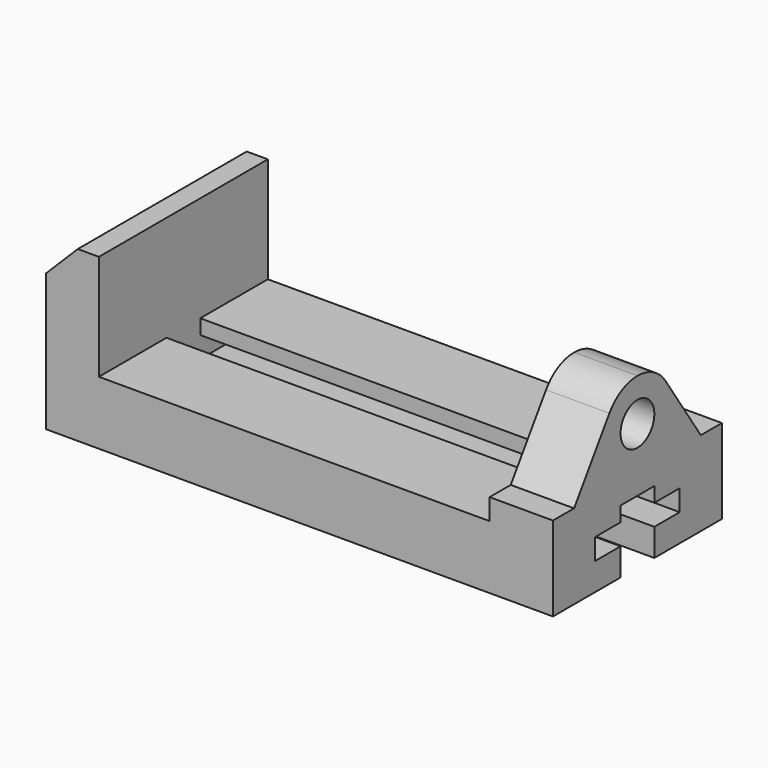
from build123d import *

# Parameters (mm, degrees)
F1_DEPTH = 127
F2_R     = 12.7
F3_DEPTH = 38.1
F4_DEPTH = 273.05


with BuildPart() as f1:
    # F0 (on Front) → F1 (new body)
    with BuildSketch(Plane.XZ):
        Polygon((0, 82.55), (0, 0), (304.8, 0), (304.8, 101.6), (266.7, 101.6), (266.7, 38.1), (31.75, 38.1), (31.75, 101.6), (19.05, 101.6), align=None)
    extrude(amount=F1_DEPTH)

    # F2 (on face) → F3 (cut)
    with BuildSketch(Plane.YZ.offset(304.8)):
        with BuildLine():
            Line((0, 101.6), (-63.5, 101.6))
            ThreePointArc((-63.5, 101.6), (-51.547059, 98.611765), (-42.406574, 90.350173))
            Line((-42.406574, 90.350173), (-15.875, 50.8))
            Line((-15.875, 50.8), (0, 50.8))
            Line((0, 50.8), (0, 101.6))
        make_face()
        with BuildLine():
            Line((-127, 101.6), (-127, 50.8))
            Line((-127, 50.8), (-111.125, 50.8))
            Line((-111.125, 50.8), (-84.593426, 90.350173))
            ThreePointArc((-84.593426, 90.350173), (-75.452941, 98.611765), (-63.5, 101.6))
            Line((-63.5, 101.6), (-127, 101.6))
        make_face()
        with Locations((-63.5, 76.2)):
            Circle(F2_R)
    extrude(amount=-F3_DEPTH, mode=Mode.SUBTRACT)

    # F2 (on face) → F4 (cut)
    with BuildSketch(Plane.YZ.offset(304.8)):
        Polygon((-76.2, 16.51), (-76.2, 0), (-50.8, 0), (-50.8, 16.51), (-31.75, 16.51), (-31.75, 29.21), (-50.8, 29.21), (-50.8, 38.1), (-76.2, 38.1), (-76.2, 29.21), (-95.25, 29.21), (-95.25, 16.51), align=None)
    extrude(amount=-F4_DEPTH, mode=Mode.SUBTRACT)


solid = f1.part
